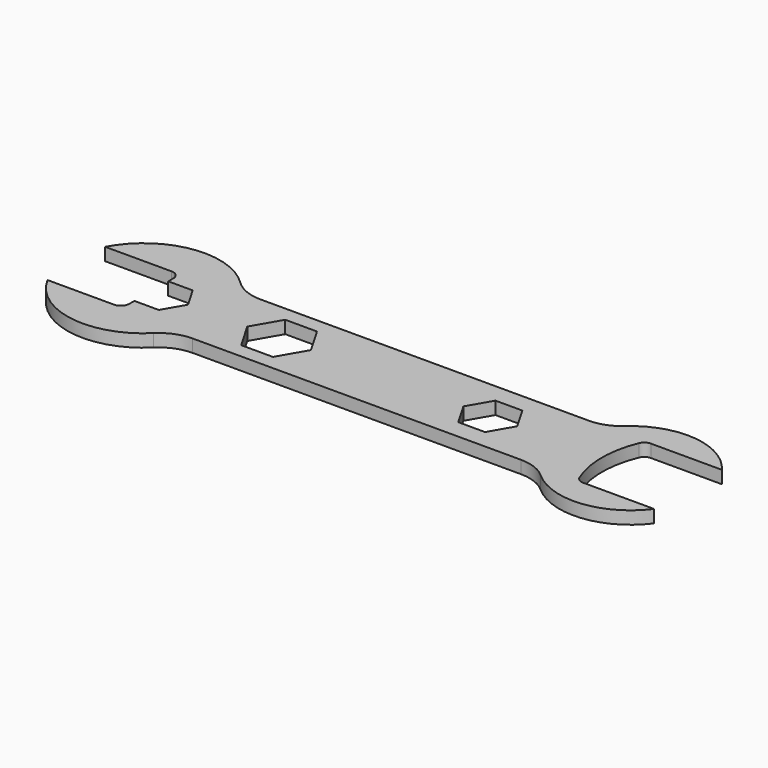
from build123d import *

# Parameters (mm, degrees)
F1_DEPTH = 3


with BuildPart() as f1:
    # F0 (on Top) → F1 (new body)
    with BuildSketch(Plane.XY):
        with BuildLine():
            ThreePointArc((-37.904082, 10), (-41.683727, 10.741799), (-44.902624, 12.857143))
            ThreePointArc((-44.902624, 12.857143), (-60.223634, 17.792746), (-73.366632, 8.5))
            Line((-73.366632, 8.5), (-57.671361, 8.5))
            ThreePointArc((-57.671361, 8.5), (-56.257147, 7.914214), (-55.671361, 6.5))
            Line((-55.671361, 6.5), (-55.671361, 5))
            Line((-55.671361, 5), (-52.78461, 5))
            Line((-52.78461, 5), (-49.897858, 5))
            Line((-49.897858, 5), (-47.011107, 0))
            Line((-47.011107, 0), (-49.897858, -5))
            Line((-49.897858, -5), (-52.78461, -5))
            Line((-52.78461, -5), (-55.671361, -5))
            Line((-55.671361, -5), (-55.671361, -6.5))
            ThreePointArc((-55.671361, -6.5), (-56.257147, -7.914214), (-57.671361, -8.5))
            Line((-57.671361, -8.5), (-73.366632, -8.5))
            ThreePointArc((-73.366632, -8.5), (-60.223634, -17.792746), (-44.902624, -12.857143))
            ThreePointArc((-44.902624, -12.857143), (-41.683727, -10.741799), (-37.904082, -10))
            Line((-37.904082, -10), (39.611456, -10))
            ThreePointArc((39.611456, -10), (43.179677, -10.658276), (46.278123, -12.54644))
            ThreePointArc((46.278123, -12.54644), (59.221926, -16.744511), (71.040446, -10))
            Line((71.040446, -10), (54.285218, -10))
            ThreePointArc((54.285218, -10), (53.172521, -9.661898), (52.436029, -8.761905))
            ThreePointArc((52.436029, -8.761905), (50.701706, 0), (52.436029, 8.761905))
            ThreePointArc((52.436029, 8.761905), (53.172521, 9.661898), (54.285218, 10))
            Line((54.285218, 10), (71.040446, 10))
            ThreePointArc((71.040446, 10), (59.221926, 16.744511), (46.278123, 12.54644))
            ThreePointArc((46.278123, 12.54644), (43.179677, 10.658276), (39.611456, 10))
            Line((39.611456, 10), (-37.904082, 10))
        make_face()
        Polygon((-33.011107, 0), (-29.25833, 6.5), (-21.752777, 6.5), (-18, 0), (-21.752777, -6.5), (-29.25833, -6.5), align=None, mode=Mode.SUBTRACT)
        Polygon((18, 0), (21.175426, 5.5), (27.526279, 5.5), (30.701706, 0), (27.526279, -5.5), (21.175426, -5.5), align=None, mode=Mode.SUBTRACT)
    extrude(amount=F1_DEPTH)


solid = f1.part
